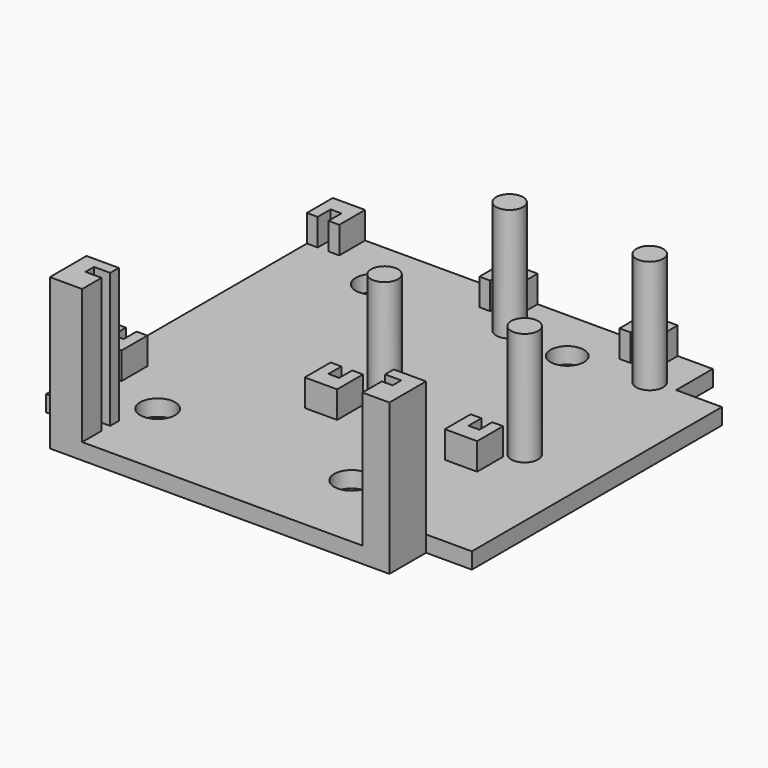
from build123d import *

# Parameters (mm, degrees)
F0_R     = 3.25
F0_R_2   = 3.1
F1_DEPTH = 3
F3_DEPTH = 5
F4_DEPTH = 25
F2_R     = 2.5
F5_DEPTH = 21


with BuildPart() as f1:
    # F0 (on Top) → F1 (new body)
    with BuildSketch(Plane.XY):
        Polygon((45.104649, 50.139535), (0, 50.139535), (-25.395351, 50.139535), (-25.395351, -16.360465), (-17.895351, -16.360465), (-17.895351, -24.860465), (0, -24.860465), (45.104649, -24.860465), (45.104649, -16.360465), (53.604649, -16.360465), (53.604649, 41.639535), (45.104649, 41.639535), align=None)
        with Locations((-9.895351, -9.860465)):
            Circle(F0_R, mode=Mode.SUBTRACT)
        with Locations((26.104649, -9.860465)):
            Circle(F0_R, mode=Mode.SUBTRACT)
        with Locations((-9.895351, 40.139535)):
            Circle(F0_R, mode=Mode.SUBTRACT)
        with Locations((26.104649, 40.139535)):
            Circle(F0_R_2, mode=Mode.SUBTRACT)
    extrude(amount=F1_DEPTH)

    # F2 (on face) → F3 (join)
    with BuildSketch(Plane.XY.offset(3)):
        Polygon((-23.395351, 44.139535), (-23.395351, 47.139535), (-21.395351, 47.139535), (-21.395351, 44.139535), (-19.395351, 44.139535), (-19.395351, 50.139535), (-25.395351, 50.139535), (-25.395351, 44.139535), align=None)
        Polygon((12.604649, 50.139535), (6.604663, 50.139535), (6.604663, 44.139535), (8.604649, 44.13226), (8.604649, 47.139535), (10.604649, 47.139535), (10.604649, 44.13226), (12.604649, 44.13226), align=None)
        Polygon((8.604649, 6.639535), (8.604649, 9.639535), (6.604649, 9.639535), (6.604649, 3.639535), (12.604649, 3.639535), (12.604649, 9.639535), (10.604649, 9.639535), (10.604649, 6.639535), align=None)
        Polygon((34.604649, 6.622626), (34.604649, 9.622626), (32.604649, 9.622626), (32.604649, 3.622626), (38.604649, 3.622626), (38.604649, 9.622626), (36.604649, 9.622626), (36.604649, 6.622626), align=None)
        Polygon((-23.395351, -3.360465), (-23.395351, -0.360465), (-25.395351, -0.360465), (-25.395351, -6.360465), (-19.395351, -6.360465), (-19.395351, -0.360465), (-21.395351, -0.360465), (-21.395351, -3.360465), align=None)
        Polygon((38.604649, 50.139535), (32.604676, 50.139535), (32.604676, 44.139535), (34.604649, 44.149872), (34.604649, 47.122626), (36.604649, 47.122626), (36.604649, 44.149872), (38.604649, 44.149872), align=None)
    extrude(amount=F3_DEPTH)

    # F2 (on face) → F4 (join)
    with BuildSketch(Plane.XY.offset(3)):
        Polygon((-11.895351, -16.360465), (-17.895351, -16.360465), (-17.895351, -24.860465), (-11.895351, -24.860465), (-11.895351, -20.360465), (-14.895351, -20.360465), (-14.895351, -18.360465), (-11.895351, -18.360465), align=None)
        Polygon((40.105954, -20.360465), (40.105954, -24.860465), (45.104649, -24.860465), (45.104649, -16.360465), (39.104649, -16.360465), (39.104649, -18.360465), (42.104649, -18.360465), (42.104649, -20.360465), align=None)
    extrude(amount=F4_DEPTH)

    # F2 (on face) → F5 (join)
    with BuildSketch(Plane.XY.offset(3)):
        with Locations((14.604649, 41.139535)):
            Circle(F2_R)
        with Locations((14.604649, 12.139535)):
            Circle(F2_R)
        with Locations((40.604649, 12.139535)):
            Circle(F2_R)
        with Locations((40.604649, 41.139535)):
            Circle(F2_R)
    extrude(amount=F5_DEPTH)


solid = f1.part
